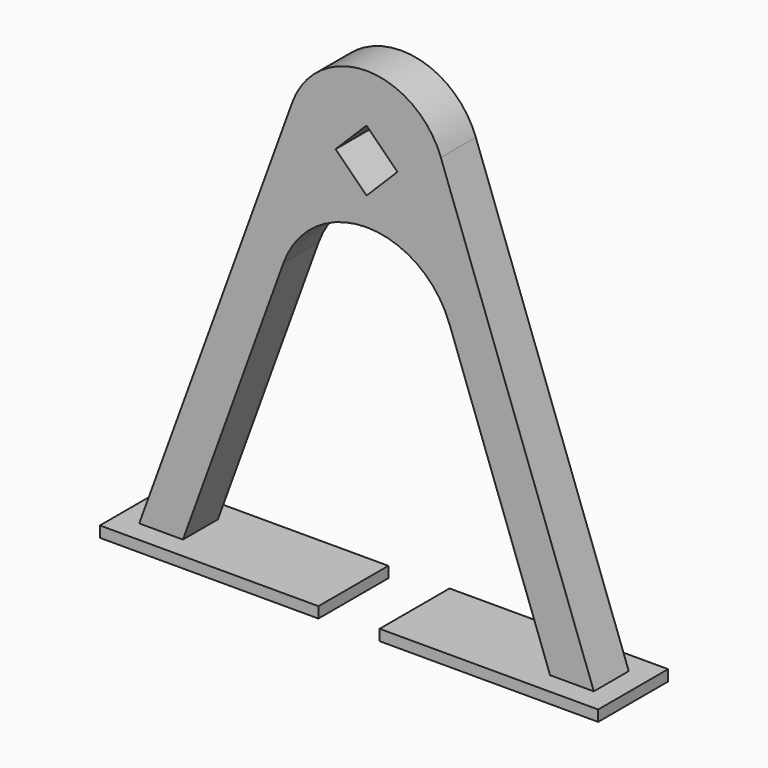
from build123d import *

# Parameters (mm, degrees)
F1_DEPTH = 12.7
F2_W     = 63.5
F2_H     = 25.4
F3_DEPTH = 3.175
F4_W     = 63.5
F4_H     = 25.4
F5_DEPTH = 3.175


with BuildPart() as f1:
    # F0 (on Front) → F1 (new body)
    with BuildSketch(Plane.XZ):
        with BuildLine():
            ThreePointArc((21.59, 7.825371), (0, 22.964419), (-21.59, 7.825371))
            Line((-21.59, 7.825371), (-66.04, -114.3))
            Line((-66.04, -114.3), (-53.34, -114.3))
            Line((-53.34, -114.3), (-24.083093, -33.917308))
            ThreePointArc((-24.083093, -33.917308), (-14.720974, -21.703733), (-0.051192, -17.054196))
            ThreePointArc((-0.051192, -17.054196), (14.679039, -21.674371), (24.083093, -33.917308))
            Line((24.083093, -33.917308), (53.34, -114.3))
            Line((53.34, -114.3), (66.04, -114.3))
            Line((66.04, -114.3), (21.59, 7.825371))
        make_face()
        Polygon((0, 8.980256), (8.980256, 0), (0, -8.980256), (-8.980256, 0), align=None, mode=Mode.SUBTRACT)
    extrude(amount=F1_DEPTH)

    # F2 (on face) → F3 (join)
    with BuildSketch(Plane(origin=(0, 0, -114.3), x_dir=(1, 0, 0), z_dir=(0, 0, -1))):
        with Locations((-40.64, 6.35)):
            Rectangle(F2_W, F2_H)
    extrude(amount=F3_DEPTH)

    # F4 (on face) → F5 (join)
    with BuildSketch(Plane(origin=(0, 0, -114.3), x_dir=(1, 0, 0), z_dir=(0, 0, -1))):
        with Locations((40.64, 6.35)):
            Rectangle(F4_W, F4_H)
    extrude(amount=F5_DEPTH)


solid = f1.part
